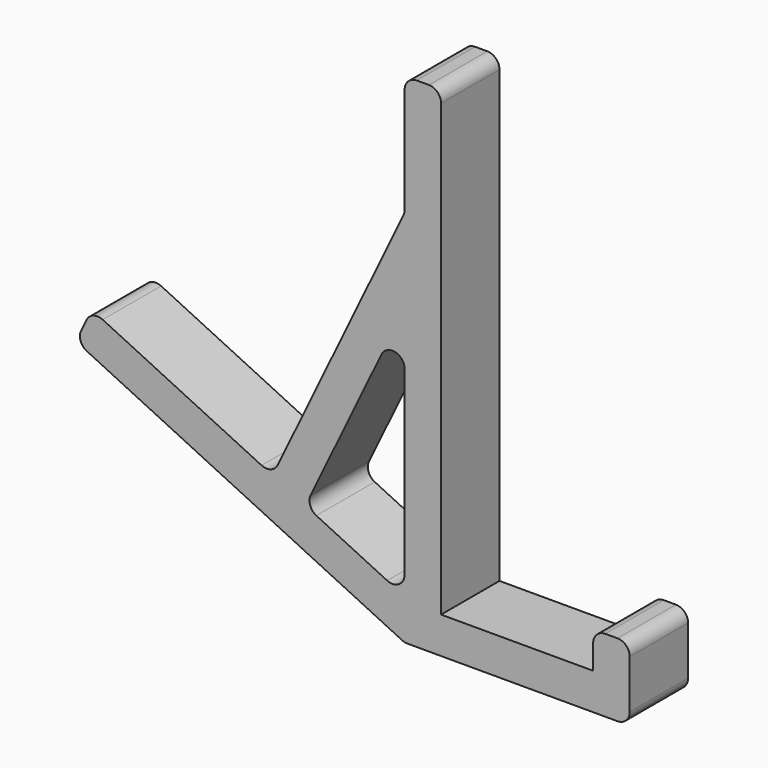
from build123d import *

# Parameters (mm, degrees)
F1_DEPTH = 12
F2_R     = 2


with BuildPart() as f1:
    # F0 (on Front) → F1 (new body)
    with BuildSketch(Plane.XZ):
        Polygon((-54.046121, 26.057951), (0, 0), (37, 0), (37, 12), (31, 12), (31, 6), (6, 6), (6, 82), (0, 82), (0, 62.169124), (-21.714959, 17.13069), (-51.440326, 31.462563), align=None)
        Polygon((0, 48.353763), (0, 6.660978), (-16.310347, 14.524895), align=None, mode=Mode.SUBTRACT)
    extrude(amount=F1_DEPTH)

    # F2
    f2_edges = [f1.edges().sort_by_distance(p)[0] for p in [
        (37, -6, 0),
        (-21.714959, -6, 17.13069),
        (0, -6, 62.169124),
        (-16.310347, -6, 14.524895),
        (0, -6, 6.660978),
        (31, -6, 12),
        (37, -6, 12),
        (0, -6, 82),
        (6, -6, 82),
        (-51.440326, -6, 31.462563),
        (-54.046121, -6, 26.057951),
        (0, -6, 0),
        (0, -6, 48.353763),
    ]]
    fillet(f2_edges, radius=F2_R)


solid = f1.part
